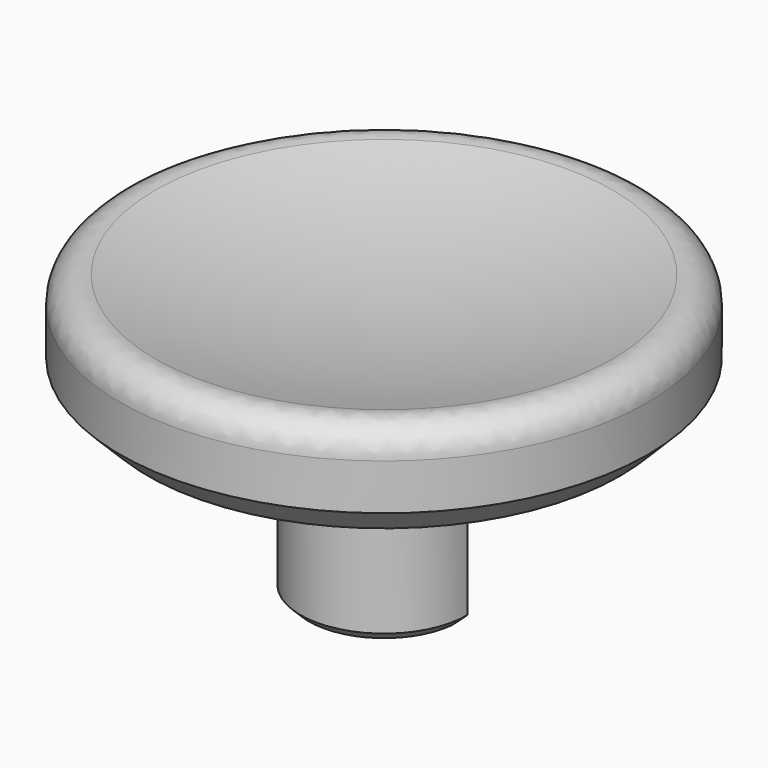
from build123d import *

# Parameters (mm, degrees)
F0_W     = 4
F0_H     = 1
F2_SIZE  = 1
F3_R     = 1
F5_DEPTH = 5.5
F6_SIZE  = 0.3


with BuildPart() as f1:
    # F0 (on Front) → F1 (revolve)
    with BuildSketch(Plane.XZ):
        with BuildLine():
            ThreePointArc((9.5, 4), (4.8088460154, 2.877308569), (0, 2.5))
            Line((0, 2.5), (0, 0))
            Line((0, 0), (4, 0))
            Line((4, 0), (9.5, 0))
            Line((9.5, 0), (9.5, 4))
        make_face()
        with Locations((2, -0.5)):
            Rectangle(F0_W, F0_H)
    revolve(axis=Axis((0, 0, 1.25), (0, 0, -1)))

    # F2
    f2_edges = [f1.edges().sort_by_distance(p)[0] for p in [
        (-9.5, 0, 0),
    ]]
    chamfer(f2_edges, length=F2_SIZE)

    # F3
    f3_edges = [f1.edges().sort_by_distance(p)[0] for p in [
        (-9.5, 0, 4),
    ]]
    fillet(f3_edges, radius=F3_R)

    # F4 (on face) → F5 (join)
    with BuildSketch(Plane(origin=(0, 0, -1), x_dir=(1, 0, 0), z_dir=(0, 0, -1))):
        with BuildLine():
            Line((-3, 0), (3, 0))
            ThreePointArc((3, 0), (0, 3), (-3, 0))
        make_face()
    extrude(amount=F5_DEPTH)

    # F6
    f6_edges = [f1.edges().sort_by_distance(p)[0] for p in [
        (0, 0, -6.5),
        (0, -3, -6.5),
    ]]
    chamfer(f6_edges, length=F6_SIZE)


solid = f1.part
